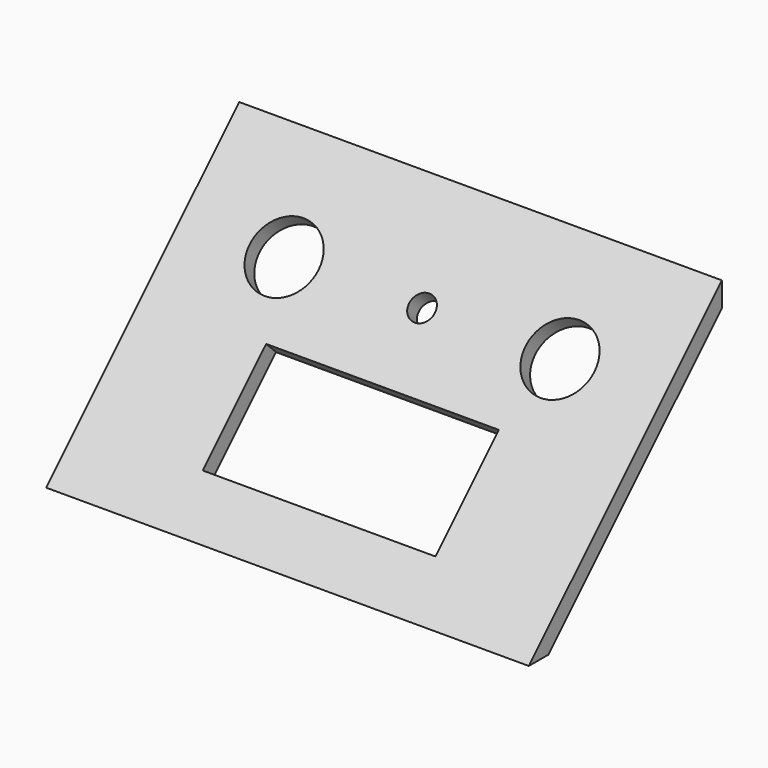
from build123d import *

# Parameters (mm, degrees)
F1_DEPTH = 88.9
F2_R     = 12.7
F2_W     = 85.725
F2_H     = 41.275
F2_R_2   = 4.7625
F3_DEPTH = 62.862793


with BuildPart() as f1:
    # F0 (on Right) → F1 (new body, symmetric)
    with BuildSketch(Plane.YZ):
        Polygon((88.9, 88.9), (0, 0), (8.980256, 0), (88.9, 79.919744), align=None)
    extrude(amount=F1_DEPTH, both=True)

    # F2 (on face) → F3 (cut, through all)
    with BuildSketch(Plane(origin=(0, 0, 0), x_dir=(1, 0, 0), z_dir=(0, -0.707107, 0.707107))):
        with Locations((50.8, 87.623586)):
            Circle(F2_R)
        with Locations((-50.8, 87.623586)):
            Circle(F2_R)
        with Locations((0, 41.275)):
            Rectangle(F2_W, F2_H)
        with Locations((0, 87.623586)):
            Circle(F2_R_2)
    extrude(amount=-F3_DEPTH, mode=Mode.SUBTRACT)


solid = f1.part
